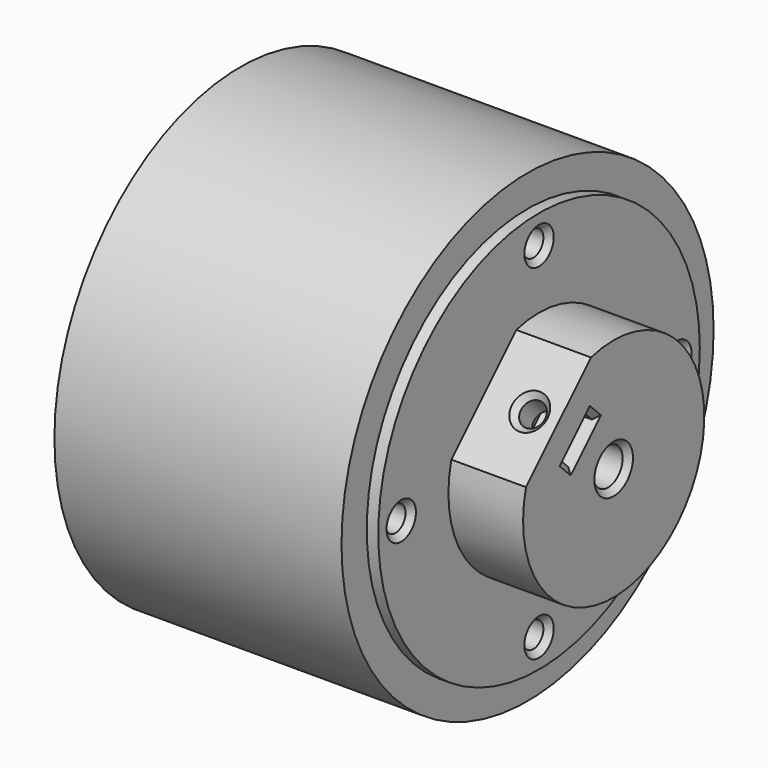
from build123d import *

# Parameters (mm, degrees)
SKETCH012_R     = 40.5
PAD008_DEPTH    = 25
SKETCH015_R     = 35
PAD011_DEPTH    = 2
SKETCH016_R     = 2.2
POCKET003_DEPTH = 54.001
PAD013_DEPTH    = 13
SKETCH020_R     = 3.2
POCKET004_DEPTH = 67.001
SKETCH019_R     = 2.1
POCKET005_DEPTH = 17
POCKET006_DEPTH = 9
CHAMFER025_SIZE = 1
CHAMFER026_SIZE = 0.4
CHAMFER034_SIZE = 1
CHAMFER035_SIZE = 1


with BuildPart() as part:
    # Sketch012 → Pad008 (new body, symmetric)
    with BuildSketch(Plane.YZ):
        Circle(SKETCH012_R)
    extrude(amount=PAD008_DEPTH, both=True)

    # Sketch015 (on Face3 of Pad008) → Pad011 (join)
    with BuildSketch(Plane.YZ.offset(25)):
        Circle(SKETCH015_R)
    pad011 = extrude(amount=PAD011_DEPTH)

    # Mirrored001: Pad011 across YZ
    add(pad011.mirror(Plane.YZ))

    # Sketch016 (on Face7 of Mirrored001) → Pocket003 (cut, through all)
    with BuildSketch(Plane.YZ.offset(27)):
        with Locations((0, 30)):
            Circle(SKETCH016_R)
        with Locations((-30, 0)):
            Circle(SKETCH016_R)
        with Locations((0, -30)):
            Circle(SKETCH016_R)
        with Locations((30, 0)):
            Circle(SKETCH016_R)
    extrude(amount=-POCKET003_DEPTH, mode=Mode.SUBTRACT)

    # Sketch018 (on Face7 of Pocket003) → Pad013 (join)
    with BuildSketch(Plane.YZ.offset(27)):
        with BuildLine():
            ThreePointArc((-19.091883, 4.949747), (13.946326, -13.946326), (-4.949747, 19.091883))
            Line((-19.091883, 4.949747), (-4.949747, 19.091883))
        make_face()
    extrude(amount=PAD013_DEPTH)

    # Sketch020 (on Face14 of Pad013) → Pocket004 (cut, through all)
    with BuildSketch(Plane.YZ.offset(40)):
        Circle(SKETCH020_R)
    extrude(amount=-POCKET004_DEPTH, mode=Mode.SUBTRACT)

    # Sketch019 (on Face13 of Pad013) → Pocket005 (cut)
    with BuildSketch(Plane(origin=(0, -12.020815, 12.020815), x_dir=(1, 0, 0), z_dir=(0, -0.707107, 0.707107))):
        with Locations((35, 0)):
            Circle(SKETCH019_R)
    extrude(amount=-POCKET005_DEPTH, mode=Mode.SUBTRACT)

    # Sketch021 (on Face15 of Pocket005) → Pocket006 (cut)
    with BuildSketch(Plane.YZ.offset(40)):
        Polygon((-11.066221, 5.904342), (-8.662058, 3.500179), (-3.500179, 8.662058), (-5.904342, 11.066221), align=None)
    extrude(amount=-POCKET006_DEPTH, mode=Mode.SUBTRACT)

    # Sketch067 → Groove (revolve, cut)
    with BuildSketch(Plane.XZ):
        Polygon((-27.5, 0), (-27.5, 13.7), (-26, 13.7), (-26, 12.2), (-19.3, 12.2), (-19.3, 8.5), (0, 8.5), (0, 0), align=None)
    revolve(axis=Axis((0, 0, 0), (1, 0, 0)), mode=Mode.SUBTRACT)

    # Chamfer025
    chamfer025_edges = [part.edges().sort_by_distance(p)[0] for p in [
        (-19.3, 0, -8.5),
    ]]
    chamfer(chamfer025_edges, length=CHAMFER025_SIZE)

    # Chamfer026
    chamfer026_edges = [part.edges().sort_by_distance(p)[0] for p in [
        (-26, 0, -12.2),
    ]]
    chamfer(chamfer026_edges, length=CHAMFER026_SIZE)

    # Chamfer034
    chamfer034_edges = [part.edges().sort_by_distance(p)[0] for p in [
        (-27, 27.8, 0),
        (-27, -2.2, 30),
        (-27, -32.2, 0),
        (-27, -2.2, -30),
        (27, -32.2, 0),
        (27, -2.2, -30),
        (27, 27.8, 0),
        (27, -2.2, 30),
        (-27, -35, 0),
    ]]
    chamfer(chamfer034_edges, length=CHAMFER034_SIZE)

    # Chamfer035
    chamfer035_edges = [part.edges().sort_by_distance(p)[0] for p in [
        (40, -3.2, 0),
        (32.9, -12.020815, 12.020815),
        (40, -9.86414, 4.70226),
        (40, -4.70226, 9.86414),
    ]]
    chamfer(chamfer035_edges, length=CHAMFER035_SIZE)


solid = part.part
